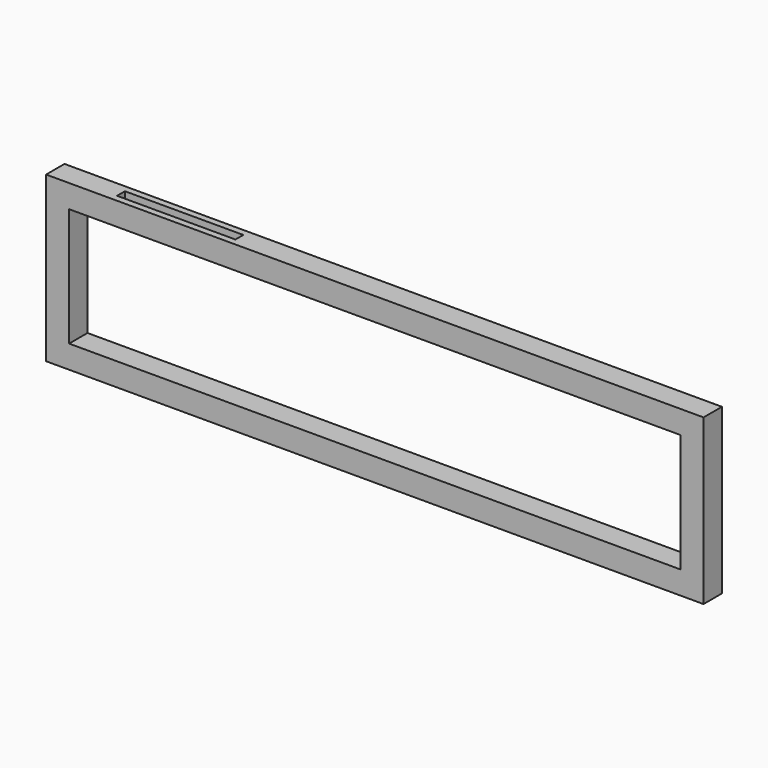
from build123d import *

# Parameters (mm, degrees)
F0_W     = 2000
F0_H     = 500
F0_W_2   = 1860
F0_H_2   = 360
F1_DEPTH = 70
F2_W     = 30
F2_H     = 360
F3_DEPTH = 25
F4_DEPTH = 25
F5_W     = 360
F5_H     = 30
F6_DEPTH = 25
F7_SCALE = 0.4


with BuildPart() as f1:
    # F0 (on Front) → F1 (new body)
    with BuildSketch(Plane.XZ):
        with Locations((18.9460813999, -353.4244084814)):
            Rectangle(F0_W, F0_H)
        with Locations((18.9460813999, -353.4244084814)):
            Rectangle(F0_W_2, F0_H_2, mode=Mode.SUBTRACT)
    extrude(amount=F1_DEPTH)



with BuildPart() as f3:
    # F2 (on face) → F3 (new body)
    with BuildSketch(Plane(origin=(0, 0, 0), x_dir=(-1, 0, 0), z_dir=(0, 1, 0))):
        with Locations((946.0539186001, -353.4244084814)):
            Rectangle(F2_W, F2_H)
    extrude(amount=-F3_DEPTH)


with BuildPart() as f1_1:
    add(f1.part)

    add(f3.part)  # F4 merges F3
    # F2 (on face) → F4 (join)
    with BuildSketch(Plane(origin=(0, 0, 0), x_dir=(-1, 0, 0), z_dir=(0, 1, 0))):
        with Locations((-983.9460813999, -353.4244084814)):
            Rectangle(F2_W, F2_H)
        with Locations((946.0539186001, -353.4244084814)):
            Rectangle(F2_W, F2_H)
    extrude(amount=F4_DEPTH)

    # F5 (on face) → F6 (cut)
    with BuildSketch(Plane.XY.offset(-103.4244084814)):
        with Locations((-601.0539186001, -35)):
            Rectangle(F5_W, F5_H)
    extrude(amount=-F6_DEPTH, mode=Mode.SUBTRACT)


with BuildPart() as f1_2:
    # F7: moved
    add(f1_1.part.scale(F7_SCALE).moved(Location((611.36764884, -42, -362.0546450888))))


solid = f1_2.part
